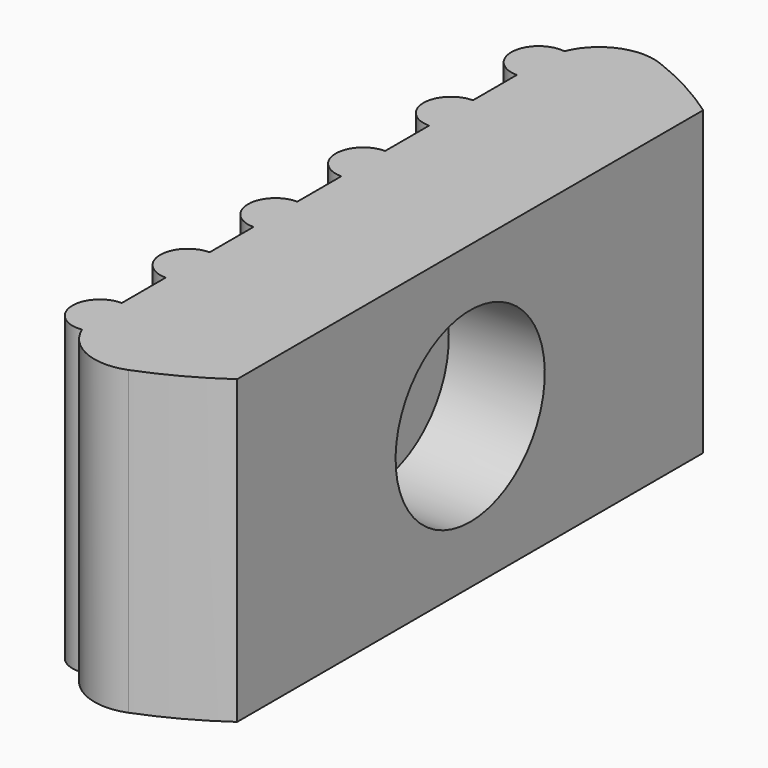
from build123d import *

# Parameters (mm, degrees)
CYLINDER022_R     = 0.5
CYLINDER022_DEPTH = 5.5
CYLINDER020_R     = 0.5
CYLINDER020_DEPTH = 5.5
CYLINDER021_R     = 0.5
CYLINDER021_DEPTH = 5.5
CYLINDER023_R     = 0.5
CYLINDER023_DEPTH = 5.5
CYLINDER018_R     = 0.5
CYLINDER018_DEPTH = 5.5
CYLINDER017_R     = 1.7
CYLINDER017_DEPTH = 10
BOX012_W          = 10
BOX012_H          = 19
BOX012_DEPTH      = 10
BOX015_W          = 10
BOX015_H          = 19
BOX015_DEPTH      = 10
CYLINDER013_R     = 6.5
CYLINDER013_DEPTH = 5.5
FILLET003_R       = 1
CYLINDER024_R     = 0.5
CYLINDER024_DEPTH = 5.5


with BuildPart() as cylinder022:
    # Cylinder022 → Cylinder022 (new body)
    with BuildSketch(Plane(origin=(1, 31, 6.25), x_dir=(1, 0, 0), z_dir=(0, 0, 1))):
        Circle(CYLINDER022_R)
    extrude(amount=CYLINDER022_DEPTH)


with BuildPart() as cylinder020:
    # Cylinder020 → Cylinder020 (new body)
    with BuildSketch(Plane(origin=(1, 35, 6.25), x_dir=(1, 0, 0), z_dir=(0, 0, 1))):
        Circle(CYLINDER020_R)
    extrude(amount=CYLINDER020_DEPTH)


with BuildPart() as cylinder021:
    # Cylinder021 → Cylinder021 (new body)
    with BuildSketch(Plane(origin=(1, 37, 6.25), x_dir=(1, 0, 0), z_dir=(0, 0, 1))):
        Circle(CYLINDER021_R)
    extrude(amount=CYLINDER021_DEPTH)


with BuildPart() as cylinder023:
    # Cylinder023 → Cylinder023 (new body)
    with BuildSketch(Plane(origin=(1, 29, 6.25), x_dir=(1, 0, 0), z_dir=(0, 0, 1))):
        Circle(CYLINDER023_R)
    extrude(amount=CYLINDER023_DEPTH)


with BuildPart() as cylinder018:
    # Cylinder018 → Cylinder018 (new body)
    with BuildSketch(Plane(origin=(1, 27, 6.25), x_dir=(1, 0, 0), z_dir=(0, 0, 1))):
        Circle(CYLINDER018_R)
    extrude(amount=CYLINDER018_DEPTH)


with BuildPart() as cylinder017:
    # Cylinder017 → Cylinder017 (new body)
    with BuildSketch(Plane(origin=(2, 32, 9), x_dir=(0, 0, -1), z_dir=(1, 0, 0))):
        Circle(CYLINDER017_R)
    extrude(amount=CYLINDER017_DEPTH)


with BuildPart() as cube012:
    # Box012 → Box012 (new body)
    with BuildSketch(Plane(origin=(-9, 20.75, 2.25), x_dir=(1, 0, 0), z_dir=(0, 0, 1))):
        with Locations((5, 9.5)):
            Rectangle(BOX012_W, BOX012_H)
    extrude(amount=BOX012_DEPTH)


with BuildPart() as cube015:
    # Box015 → Box015 (new body)
    with BuildSketch(Plane(origin=(3.75, 20.75, 2.25), x_dir=(1, 0, 0), z_dir=(0, 0, 1))):
        with Locations((5, 9.5)):
            Rectangle(BOX015_W, BOX015_H)
    extrude(amount=BOX015_DEPTH)


with BuildPart() as cut002008023012009006003002006_body:
    # Cylinder013 → Cylinder013 (new body)
    with BuildSketch(Plane(origin=(0, 32, 6.25), x_dir=(1, 0, 0), z_dir=(0, 0, 1))):
        Circle(CYLINDER013_R)
    extrude(amount=CYLINDER013_DEPTH)

    # Cut002008023012009006003002006002006002004006: cut Cube015
    add(cube015.part, mode=Mode.SUBTRACT)

    # Cut002008023012009006003002006002006002004007: cut Cube012
    add(cube012.part, mode=Mode.SUBTRACT)

    # Fillet003
    fillet003_edges = [cut002008023012009006003002006_body.edges().sort_by_distance(p)[0] for p in [
        (1, 38.422616, 9),
        (1, 25.577384, 9),
    ]]
    fillet(fillet003_edges, radius=FILLET003_R)

    # Cut002008023012009006003002006002006002004008: cut Cylinder017
    add(cylinder017.part, mode=Mode.SUBTRACT)


with BuildPart() as wire_clamp:
    # Cylinder024 → Cylinder024 (new body)
    with BuildSketch(Plane(origin=(1, 33, 6.25), x_dir=(1, 0, 0), z_dir=(0, 0, 1))):
        Circle(CYLINDER024_R)
    extrude(amount=CYLINDER024_DEPTH)

    # Fusion001001001011002: union Cylinder022, Cylinder020, Cylinder021, Cylinder023, Cylinder018, Cut002008023012009006003002006 body
    add(cylinder022.part)
    add(cylinder020.part)
    add(cylinder021.part)
    add(cylinder023.part)
    add(cylinder018.part)
    add(cut002008023012009006003002006_body.part)


solid = wire_clamp.part
